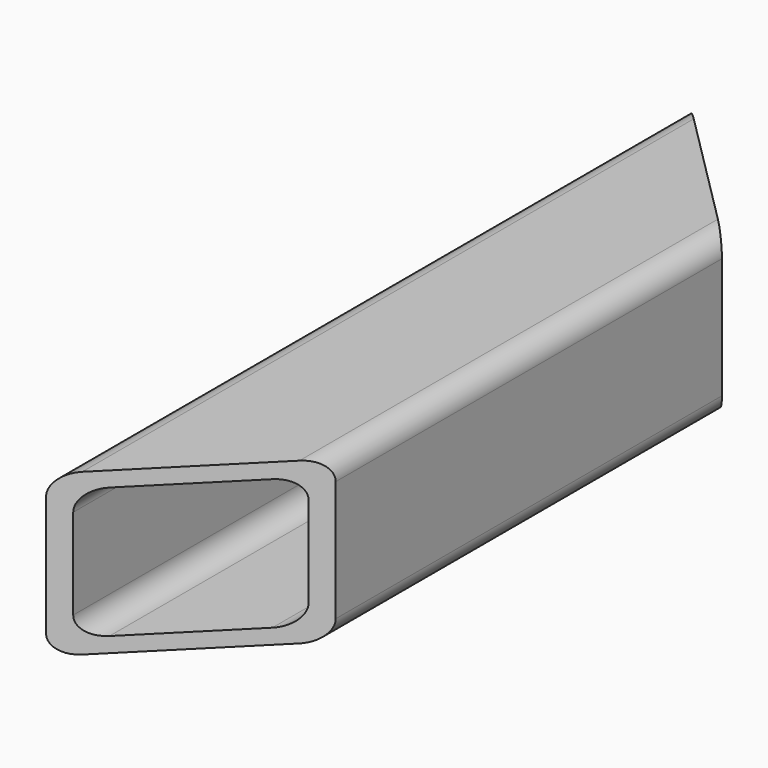
from build123d import *

# Parameters (mm, degrees)
F1_DEPTH      = 254
F3_DEPTH      = 25.401
F3_DEPTH_BACK = 25.4


with BuildPart() as f1:
    # F0 (on Front) → F1 (new body)
    with BuildSketch(Plane.XZ):
        with BuildLine():
            ThreePointArc((25.4, 19.05), (23.5401280605, 23.5401280605), (19.05, 25.4))
            Line((19.05, 25.4), (-19.05, 25.4))
            ThreePointArc((-19.05, 25.4), (-23.5401280605, 23.5401280605), (-25.4, 19.05))
            Line((-25.4, 19.05), (-25.4, -19.05))
            ThreePointArc((-25.4, -19.05), (-23.5401280605, -23.5401280605), (-19.05, -25.4))
            Line((-19.05, -25.4), (19.05, -25.4))
            ThreePointArc((19.05, -25.4), (23.5401280605, -23.5401280605), (25.4, -19.05))
            Line((25.4, -19.05), (25.4, 19.05))
        make_face()
        with BuildLine():
            Line((-14.2875, 20.6375), (14.2875, 20.6375))
            ThreePointArc((14.2875, 20.6375), (18.7776280605, 18.7776280605), (20.6375, 14.2875))
            Line((20.6375, 14.2875), (20.6375, -14.2875))
            ThreePointArc((20.6375, -14.2875), (18.7776280605, -18.7776280605), (14.2875, -20.6375))
            Line((14.2875, -20.6375), (-14.2875, -20.6375))
            ThreePointArc((-14.2875, -20.6375), (-18.7776280605, -18.7776280605), (-20.6375, -14.2875))
            Line((-20.6375, -14.2875), (-20.6375, 14.2875))
            ThreePointArc((-20.6375, 14.2875), (-18.7776280605, 18.7776280605), (-14.2875, 20.6375))
        make_face(mode=Mode.SUBTRACT)
    extrude(amount=F1_DEPTH)

    # F2 (on Top) → F3 (cut, two sides)
    with BuildSketch(Plane.XY) as f3_sk:
        Polygon((25.4, -50.8), (25.4, 0), (-25.4, 0), align=None)
        Polygon((-25.4, -254), (25.4, -254), (25.4, -203.2), align=None)
    extrude(amount=-F3_DEPTH, mode=Mode.SUBTRACT)
    extrude(f3_sk.sketch, amount=F3_DEPTH_BACK, mode=Mode.SUBTRACT)


solid = f1.part
